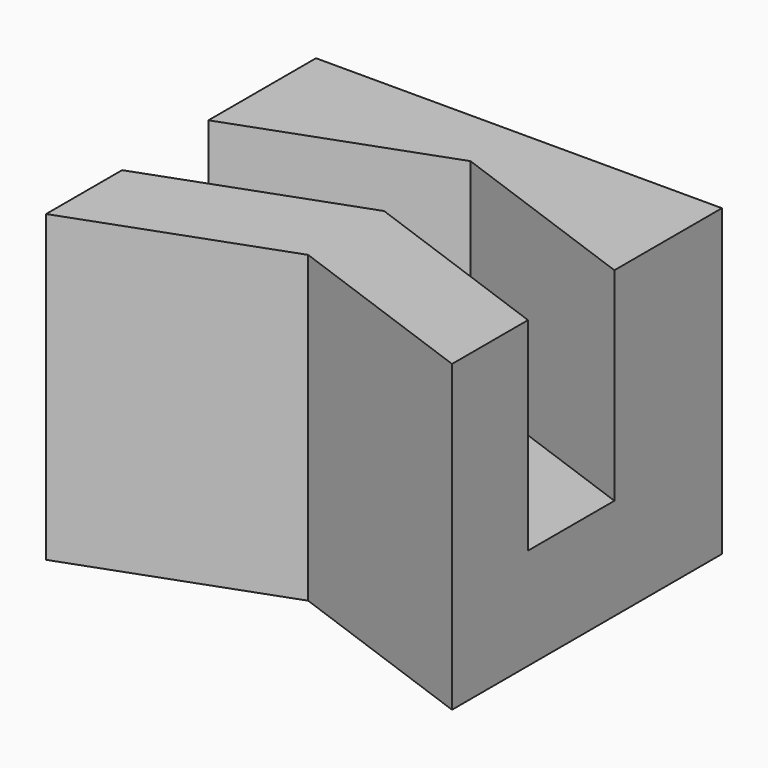
from build123d import *

# Parameters (mm, degrees)
F0_W     = 40
F0_H     = 40
F1_DEPTH = 30
F3_DEPTH = 20
F2_W     = 40
F2_H     = 6.755145
F4_DEPTH = 30.001


with BuildPart() as f1:
    # F0 (on Top) → F1 (new body)
    with BuildSketch(Plane.XY):
        Rectangle(F0_W, F0_H)
    extrude(amount=-F1_DEPTH)

    # F2 (on face) → F3 (cut)
    with BuildSketch(Plane.XY):
        Polygon((20, -10.641778), (20, 0), (0, 7.279405), (-20, 0), (-20, -10.641778), (0, -3.362373), align=None)
    extrude(amount=-F3_DEPTH, mode=Mode.SUBTRACT)

    # F2 (on face) → F4 (cut, through all)
    with BuildSketch(Plane.XY):
        Polygon((-20, -20), (20, -20), (0, -12.720595), align=None)
        with Locations((0, 16.622428)):
            Rectangle(F2_W, F2_H)
    extrude(amount=-F4_DEPTH, mode=Mode.SUBTRACT)


solid = f1.part
